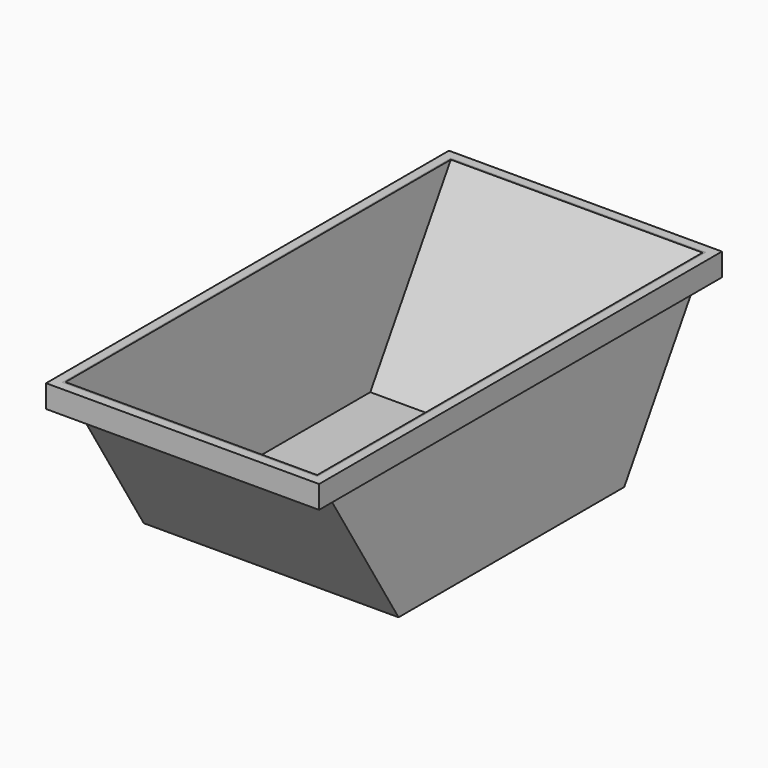
from build123d import *

# Parameters (mm, degrees)
F0_W     = 1680
F0_H     = 3200
F1_DEPTH = 1090
F3_DEPTH = 1680.001
F4_T     = -10
F0_W_2   = 1800
F0_H_2   = 3320
F5_DEPTH = 150


with BuildPart() as f1:
    # F0 (on Top) → F1 (new body)
    with BuildSketch(Plane.XY):
        Rectangle(F0_W, F0_H)
    extrude(amount=-F1_DEPTH)

    # F2 (on face) → F3 (cut, through all)
    with BuildSketch(Plane(origin=(-840, 0, 0), x_dir=(0, -1, 0), z_dir=(-1, 0, 0))):
        Polygon((-930, -1090), (-1600, 0), (-1600, -1090), align=None)
        Polygon((1600, -1090), (1600, 0), (930, -1090), align=None)
    extrude(amount=-F3_DEPTH, mode=Mode.SUBTRACT)

    # F4
    f4_openings = [f1.faces().sort_by_distance(p)[0] for p in [
        (0, 0, 0),
    ]]
    offset(amount=F4_T, openings=f4_openings)


with BuildPart() as f5:
    # F0 (on Top) → F5 (new body)
    with BuildSketch(Plane.XY):
        Rectangle(F0_W_2, F0_H_2)
        Rectangle(F0_W, F0_H, mode=Mode.SUBTRACT)
    extrude(amount=-F5_DEPTH)


solid = Compound([f1.part, f5.part])
